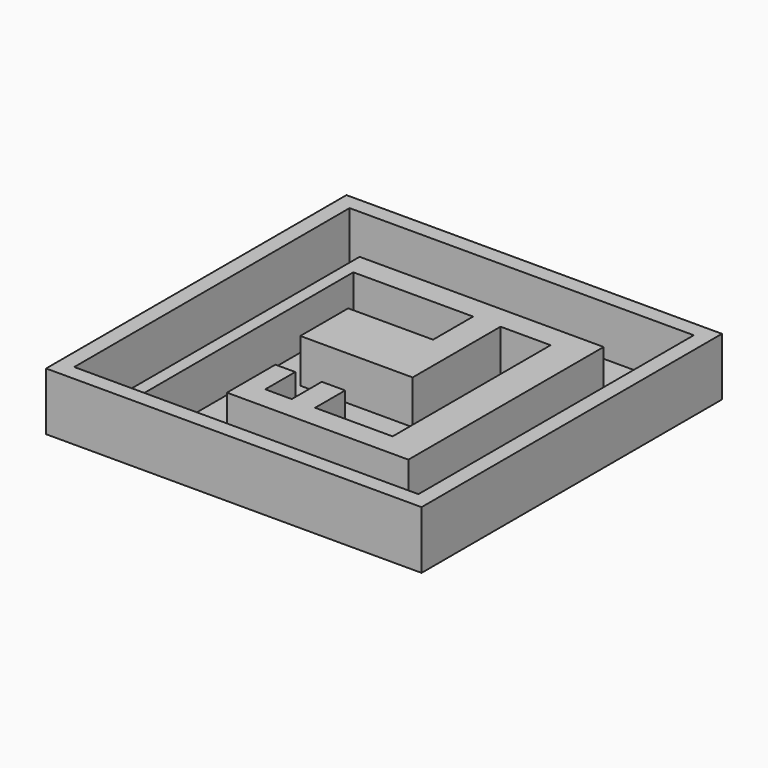
from build123d import *

# Parameters (mm, degrees)
F0_W      = 38.1
F0_H      = 38.1
F1_DEPTH  = 0.79375
F2_W      = 38.1
F2_H      = 38.1
F2_W_2    = 34.925
F2_H_2    = 34.925
F3_DEPTH  = 5.08
F6_DEPTH  = 1.5875
F7_W      = 8.6149428158
F7_H      = 6.0720914678
F7_W_2    = 2.3730299118
F7_H_2    = 3.8083838299
F7_W_3    = 2.0170976641
F8_DEPTH  = 4.445
F9_R      = 1.2241603382
F9_R_2    = 1.27
F10_DEPTH = 0.396875
F11_DEPTH = 0.2286
F12_DEPTH = 1.8161


with BuildPart() as f1:
    # F0 (on Top) → F1 (new body)
    with BuildSketch(Plane.XY):
        with Locations((2.3213718086, -3.6332369254)):
            Rectangle(F0_W, F0_H)
    extrude(amount=F1_DEPTH)

    # F2 (on face) → F3 (join)
    with BuildSketch(Plane.XY.offset(0.79375)):
        with Locations((2.3213718086, -3.6332369254)):
            Rectangle(F2_W, F2_H)
        with Locations((2.3213718086, -3.6332369254)):
            Rectangle(F2_W_2, F2_H_2, mode=Mode.SUBTRACT)
    extrude(amount=F3_DEPTH)

    # F4 (on face) → F6 (join)
    with BuildSketch(Plane.XY.offset(0.79375)):
        Polygon((-10.0611281914, 8.7492630746), (-10.0611281914, -21.0957369254), (-8.7911281914, -21.0957369254), (-8.7911281914, 6.362864282), (3.3684632859, 6.362864282), (3.3684632859, -4.7892271858), (6.1505037943, -4.7892271858), (6.1505037943, 6.362864282), (12.7729084343, 6.362864282), (14.7038718086, 6.362864282), (14.7038718086, 8.7492630746), (-8.7911281914, 8.7492630746), align=None)
    extrude(amount=F6_DEPTH)

    # F7 (on face) + F6_face (on face) → F8 (join)
    with BuildSketch(Plane.XY.offset(0.79375)):
        with Locations((-0.939008122, -1.7531814519)):
            Rectangle(F7_W, F7_H)
        Polygon((14.7038718086, -16.0157369254), (14.7038718086, 6.362864282), (11.2305037943, 6.362864282), (11.2305037943, -13.6776110157), (11.2305037943, -16.0157369254), align=None)
        Polygon((11.2305037943, -16.0157369254), (11.2305037943, -13.6776110157), (3.3684632859, -13.6776110157), (0.995433374, -13.6776110157), (-1.6940305273, -13.6776110157), (-3.7111281914, -13.6776110157), (-3.7111281914, -16.0157369254), align=None)
        with Locations((2.18194833, -11.7734191008)):
            Rectangle(F7_W_2, F7_H_2)
        with Locations((-2.7025793593, -11.7734191008)):
            Rectangle(F7_W_3, F7_H_2)
    with BuildSketch(Plane(origin=(-0.3508488173, 1.7127034678, 2.38125), x_dir=(1, 0, 0), z_dir=(0, 0, 1))):
        Polygon((15.054720626, 7.0365596068), (-9.710279374, 7.0365596068), (-9.710279374, -22.8084403932), (-8.440279374, -22.8084403932), (-8.440279374, 4.6501608142), (3.7193121032, 4.6501608142), (3.7193121032, -6.5019306536), (6.5013526117, -6.5019306536), (6.5013526117, 4.6501608142), (15.054720626, 4.6501608142), align=None)
    extrude(amount=F8_DEPTH)

    # F9 (on face) → F10 (cut)
    with BuildSketch(Plane.XY.offset(0.79375)):
        with Locations((-12.3845431954, -17.3266101629)):
            Circle(F9_R)
        with Locations((8.5934712139, 3.3424642536)):
            Circle(F9_R_2)
    extrude(amount=-F10_DEPTH, mode=Mode.SUBTRACT)

    # F11 (add): a face of the model
    f11_faces = [f1.faces().sort_by_distance(p)[0] for p in [
        (2.3213718086, 8.3614449148, 6.82625),
    ]]
    extrude(f11_faces, amount=F11_DEPTH)

    # F12 (cut, through all): a face of the model
    f12_faces = [f1.faces().sort_by_distance(p)[0] for p in [
        (2.3213718086, 8.3614449148, 7.05485),
    ]]
    extrude(f12_faces, amount=-F12_DEPTH, mode=Mode.SUBTRACT)


solid = f1.part
